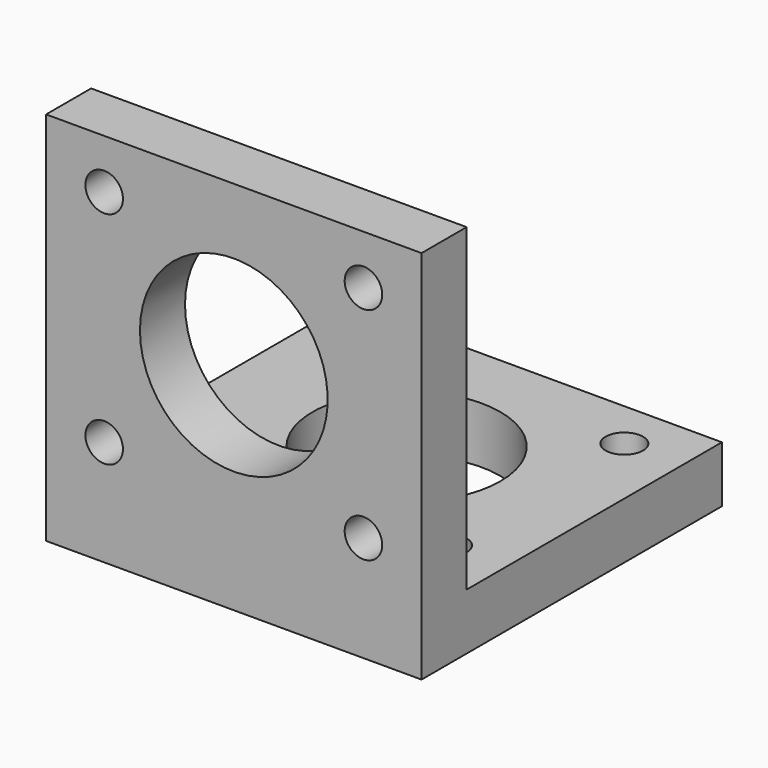
from build123d import *

# Parameters (mm, degrees)
F1_DEPTH = 50
F2_R     = 12.5
F2_R_2   = 2.5
F3_DEPTH = 7.501
F4_R     = 12.5
F4_R_2   = 2.5
F5_DEPTH = 7.501


with BuildPart() as f1:
    # F0 (on Right) → F1 (new body)
    with BuildSketch(Plane.YZ):
        Polygon((7.5, 50), (0, 50), (0, 0), (50, 0), (50, 7.5), (7.5, 7.5), align=None)
    extrude(amount=F1_DEPTH)

    # F2 (on face) → F3 (cut, through all)
    with BuildSketch(Plane(origin=(0, 7.5, 0), x_dir=(-1, 0, 0), z_dir=(0, 1, 0))):
        with Locations((-25, 28.75)):
            Circle(F2_R)
        with Locations((-42.262121, 43.422803)):
            Circle(F2_R_2)
        with Locations((-7.737879, 43.422803)):
            Circle(F2_R_2)
        with Locations((-7.737879, 14.077197)):
            Circle(F2_R_2)
        with Locations((-42.262121, 14.077197)):
            Circle(F2_R_2)
    extrude(amount=-F3_DEPTH, mode=Mode.SUBTRACT)

    # F4 (on face) → F5 (cut, through all)
    with BuildSketch(Plane.XY.offset(7.5)):
        with Locations((25, 28.75)):
            Circle(F4_R)
        with Locations((7.737879, 43.422803)):
            Circle(F4_R_2)
        with Locations((42.262121, 43.422803)):
            Circle(F4_R_2)
        with Locations((42.262121, 14.077197)):
            Circle(F4_R_2)
        with Locations((7.737879, 14.077197)):
            Circle(F4_R_2)
    extrude(amount=-F5_DEPTH, mode=Mode.SUBTRACT)


solid = f1.part
